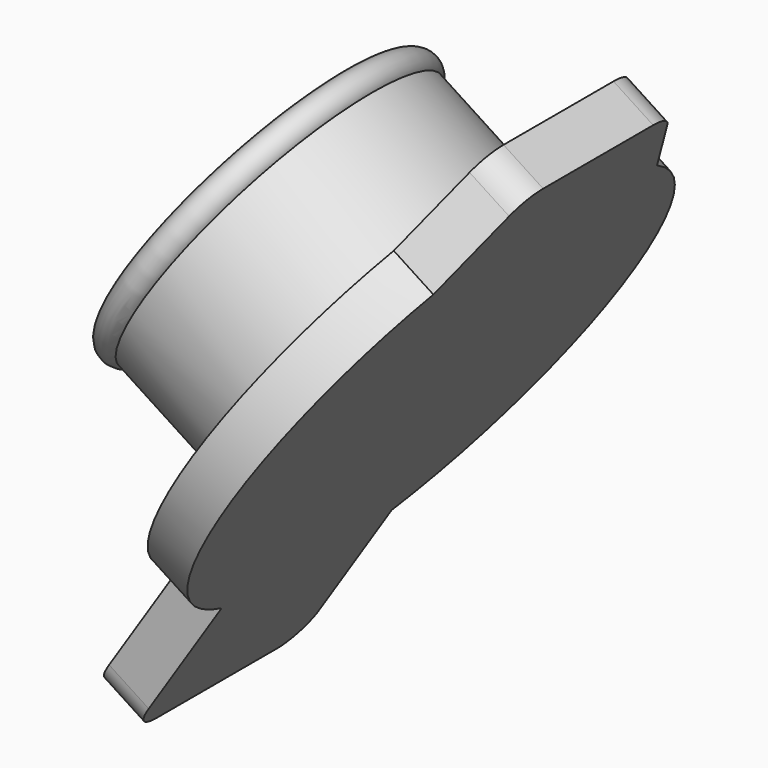
from build123d import *

# Parameters (mm, degrees)
PAD002_DEPTH              = 1.2
FUSION003_PLACEMENT_ANGLE = 236.997804


with BuildPart() as cup_inner001:
    # Sketch004 → Revolution003 (revolve)
    with BuildSketch(Plane.XZ):
        with BuildLine():
            ThreePointArc((4.018909, 34.9), (4.45676, 35.140127), (4.309919, 35.617424))
            Line((4.309919, 35.617424), (4.309919, 38.9))
            Line((4.309919, 38.9), (0, 38.9))
            Line((0, 38.630993), (0, 38.9))
            Line((0, 38.630993), (3.790019, 38.630993))
            Line((3.790019, 38.630993), (3.790019, 34.9))
            Line((3.790019, 34.9), (4.018909, 34.9))
        make_face()
    revolve(axis=Axis((0, 0, 0), (0, 0, 1)))


with BuildPart() as cup_full001:
    # Sketch006 → Pad002 (new body)
    with BuildSketch(Plane.XY):
        with BuildLine():
            ThreePointArc((-5.324523, -3.550979), (0.488034, -6.381365), (5.802586, -2.7))
            Line((5.802586, -2.7), (9.2, -2.7))
            ThreePointArc((9.2, -2.7), (9.765685, -2.465685), (10, -1.9))
            Line((10, -1.9), (10, 0))
            Line((10, 1.9), (10, 0))
            ThreePointArc((10, 1.9), (9.765685, 2.465685), (9.2, 2.7))
            Line((5.802586, 2.7), (9.2, 2.7))
            ThreePointArc((5.802586, 2.7), (0.488034, 6.381365), (-5.324523, 3.550979))
            Line((-5.324523, 3.550979), (-7.330632, 2.509835))
            ThreePointArc((-7.330632, 2.509835), (-7.669656, 2.192899), (-7.794795, 1.745992))
            Line((-7.794795, 0), (-7.794795, 1.745992))
            Line((-7.794795, -1.745992), (-7.794795, 0))
            ThreePointArc((-7.794795, -1.745992), (-7.669656, -2.192899), (-7.330632, -2.509835))
            Line((-5.324523, -3.550979), (-7.330632, -2.509835))
        make_face()
    extrude(amount=PAD002_DEPTH)


with BuildPart() as cup_full001_1:
    # Body006 placement: moved
    add(cup_full001.part.moved(Location((0, 0, 39))))

    # Fusion003: union Cup inner001
    add(cup_inner001.part)


with BuildPart() as cup_full001_2:
    # Fusion003 placement: moved
    add(cup_full001_1.part.moved(Location((-17.269331, 0, 68.625984))).rotate(Axis((-17.269331, 0, 68.625984), (0, -1, 0)), FUSION003_PLACEMENT_ANGLE))


solid = cup_full001_2.part
